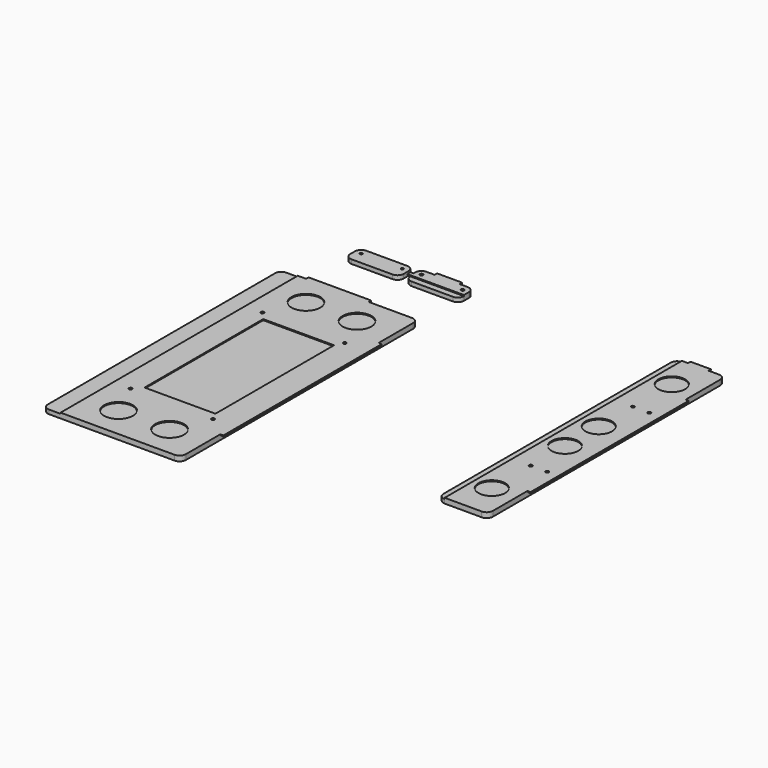
from build123d import *

# Parameters (mm, degrees)
F0_R     = 4.8895
F0_R_2   = 3.9751
F1_DEPTH = 12.7
F2_R     = 4.8895
F2_R_2   = 44.45
F2_W     = 218.482186
F2_H     = 457.2
F3_DEPTH = 3.175
F4_R     = 41.275
F4_R_2   = 4.8895
F5_DEPTH = 3.175
F6_R     = 4.8895
F7_DEPTH = 3.175


with BuildPart() as f1:
    # F0 (on Top) → F1 (new body)
    with BuildSketch(Plane.XY):
        with BuildLine():
            ThreePointArc((-400.520772, -680.39232), (-394.941157, -693.862704), (-381.470772, -699.44232))
            Line((-381.470772, -699.44232), (5.879228, -699.44232))
            ThreePointArc((5.879228, -699.44232), (19.349612, -693.862704), (24.929228, -680.39232))
            Line((24.929228, -680.39232), (24.929228, 195.90768))
            ThreePointArc((24.929228, 195.90768), (19.349612, 209.378064), (5.879228, 214.95768))
            Line((5.879228, 214.95768), (-381.470772, 214.95768))
            ThreePointArc((-381.470772, 214.95768), (-394.941157, 209.378064), (-400.520772, 195.90768))
            Line((-400.520772, 195.90768), (-400.520772, -680.39232))
        make_face()
        with Locations((-292.570772, -496.24232)):
            Circle(F0_R, mode=Mode.SUBTRACT)
        with Locations((-38.570772, -496.24232)):
            Circle(F0_R, mode=Mode.SUBTRACT)
        with Locations((-292.570772, 11.75768)):
            Circle(F0_R, mode=Mode.SUBTRACT)
        with Locations((-38.570772, 11.75768)):
            Circle(F0_R, mode=Mode.SUBTRACT)
        with BuildLine():
            ThreePointArc((634.529173, -449.25231), (640.108789, -462.722694), (653.579173, -468.30231))
            Line((653.579173, -468.30231), (767.879173, -468.30231))
            ThreePointArc((767.879173, -468.30231), (781.349558, -462.722694), (786.929173, -449.25231))
            Line((786.929173, -449.25231), (786.929173, 427.04769))
            ThreePointArc((786.929173, 427.04769), (781.349558, 440.518075), (767.879173, 446.09769))
            Line((767.879173, 446.09769), (653.579173, 446.09769))
            ThreePointArc((653.579173, 446.09769), (640.108789, 440.518075), (634.529173, 427.04769))
            Line((634.529173, 427.04769), (634.529173, -449.25231))
        make_face()
        with Locations((710.729173, -207.95231)):
            Circle(F0_R_2, mode=Mode.SUBTRACT)
        with Locations((761.529173, -207.95231)):
            Circle(F0_R_2, mode=Mode.SUBTRACT)
        with Locations((710.729173, 185.74769)):
            Circle(F0_R_2, mode=Mode.SUBTRACT)
        with Locations((761.529173, 185.74769)):
            Circle(F0_R_2, mode=Mode.SUBTRACT)
        with BuildLine():
            ThreePointArc((-321.780769, 386.407701), (-316.201153, 372.937317), (-302.730769, 367.357701))
            Line((-302.730769, 367.357701), (-175.730769, 367.357701))
            ThreePointArc((-175.730769, 367.357701), (-162.260385, 372.937317), (-156.680769, 386.407701))
            Line((-156.680769, 386.407701), (-156.680769, 405.457701))
            ThreePointArc((-156.680769, 405.457701), (-162.260385, 418.928085), (-175.730769, 424.507701))
            Line((-175.730769, 424.507701), (-302.730769, 424.507701))
            ThreePointArc((-302.730769, 424.507701), (-316.201153, 418.928085), (-321.780769, 405.457701))
            Line((-321.780769, 405.457701), (-321.780769, 386.407701))
        make_face()
        with Locations((-302.730769, 405.457701)):
            Circle(F0_R_2, mode=Mode.SUBTRACT)
        with Locations((-175.730769, 405.457701)):
            Circle(F0_R_2, mode=Mode.SUBTRACT)
        with BuildLine():
            Line((10.197231, 424.507701), (-116.802769, 424.507701))
            ThreePointArc((-116.802769, 424.507701), (-130.273153, 418.928085), (-135.852769, 405.457701))
            Line((-135.852769, 405.457701), (-135.852769, 386.407701))
            ThreePointArc((-135.852769, 386.407701), (-130.273153, 372.937317), (-116.802769, 367.357701))
            Line((-116.802769, 367.357701), (10.197231, 367.357701))
            ThreePointArc((10.197231, 367.357701), (23.667615, 372.937317), (29.247231, 386.407701))
            Line((29.247231, 386.407701), (29.247231, 405.457701))
            ThreePointArc((29.247231, 405.457701), (23.667615, 418.928085), (10.197231, 424.507701))
        make_face()
        with Locations((-116.802769, 405.457701)):
            Circle(F0_R_2, mode=Mode.SUBTRACT)
        with Locations((10.197231, 405.457701)):
            Circle(F0_R_2, mode=Mode.SUBTRACT)
    extrude(amount=F1_DEPTH)

    # F2 (on face) → F3 (join)
    with BuildSketch(Plane.XY.offset(12.7)):
        with BuildLine():
            Line((-345.952958, 214.95768), (-345.952958, -699.44232))
            Line((-345.952958, -699.44232), (5.879228, -699.44232))
            ThreePointArc((5.879228, -699.44232), (19.349612, -693.862704), (24.929228, -680.39232))
            Line((24.929228, -680.39232), (24.929228, -547.04232))
            Line((24.929228, -547.04232), (34.454228, -547.04232))
            Line((34.454228, -547.04232), (34.454228, 62.55768))
            Line((34.454228, 62.55768), (24.929228, 62.55768))
            Line((24.929228, 62.55768), (24.929228, 195.90768))
            ThreePointArc((24.929228, 195.90768), (19.349612, 209.378064), (5.879228, 214.95768))
            Line((5.879228, 214.95768), (-127.470772, 214.95768))
            Line((-127.470772, 214.95768), (-127.470772, 224.48268))
            Line((-127.470772, 224.48268), (-320.552958, 224.48268))
            Line((-320.552958, 224.48268), (-320.552958, 214.95768))
            Line((-320.552958, 214.95768), (-345.952958, 214.95768))
        make_face()
        with Locations((-292.570772, -496.24232)):
            Circle(F2_R, mode=Mode.SUBTRACT)
        with Locations((-244.016021, -603.443396)):
            Circle(F2_R_2, mode=Mode.SUBTRACT)
        with Locations((-160.511865, -242.24232)):
            Rectangle(F2_W, F2_H, mode=Mode.SUBTRACT)
        with Locations((-86.468175, -603.443396)):
            Circle(F2_R_2, mode=Mode.SUBTRACT)
        with Locations((-38.570772, -496.24232)):
            Circle(F2_R, mode=Mode.SUBTRACT)
        with Locations((-292.570772, 11.75768)):
            Circle(F2_R, mode=Mode.SUBTRACT)
        with Locations((-244.016021, 118.958756)):
            Circle(F2_R_2, mode=Mode.SUBTRACT)
        with Locations((-86.468175, 118.958756)):
            Circle(F2_R_2, mode=Mode.SUBTRACT)
        with Locations((-38.570772, 11.75768)):
            Circle(F2_R, mode=Mode.SUBTRACT)
    extrude(amount=F3_DEPTH)

    # F4 (on face) → F5 (join)
    with BuildSketch(Plane.XY.offset(12.7)):
        with BuildLine():
            Line((653.579173, 446.09769), (653.579173, -468.30231))
            Line((653.579173, -468.30231), (767.879173, -468.30231))
            ThreePointArc((767.879173, -468.30231), (781.349558, -462.722694), (786.929173, -449.25231))
            Line((786.929173, -449.25231), (786.929173, -315.90231))
            Line((786.929173, -315.90231), (796.454173, -315.90231))
            Line((796.454173, -315.90231), (796.454173, 293.69769))
            Line((796.454173, 293.69769), (786.929173, 293.69769))
            Line((786.929173, 293.69769), (786.929173, 427.04769))
            ThreePointArc((786.929173, 427.04769), (781.349558, 440.518075), (767.879173, 446.09769))
            Line((767.879173, 446.09769), (736.129173, 446.09769))
            Line((736.129173, 446.09769), (736.129173, 455.62269))
            Line((736.129173, 455.62269), (672.629173, 455.62269))
            Line((672.629173, 455.62269), (672.629173, 446.09769))
            Line((672.629173, 446.09769), (653.579173, 446.09769))
        make_face()
        with Locations((710.729173, -357.894033)):
            Circle(F4_R, mode=Mode.SUBTRACT)
        with Locations((710.729173, -207.95231)):
            Circle(F4_R_2, mode=Mode.SUBTRACT)
        with Locations((710.729173, -76.371066)):
            Circle(F4_R, mode=Mode.SUBTRACT)
        with Locations((761.529173, -207.95231)):
            Circle(F4_R_2, mode=Mode.SUBTRACT)
        with Locations((710.729173, 54.166447)):
            Circle(F4_R, mode=Mode.SUBTRACT)
        with Locations((710.729173, 185.74769)):
            Circle(F4_R_2, mode=Mode.SUBTRACT)
        with Locations((710.729173, 335.689414)):
            Circle(F4_R, mode=Mode.SUBTRACT)
        with Locations((761.529173, 185.74769)):
            Circle(F4_R_2, mode=Mode.SUBTRACT)
    extrude(amount=F5_DEPTH)

    # F6 (on face) → F7 (join)
    with BuildSketch(Plane.XY.offset(12.7)):
        with BuildLine():
            Line((-145.377769, 386.407701), (-135.852769, 386.407701))
            Line((-135.852769, 386.407701), (29.247231, 386.407701))
            Line((29.247231, 386.407701), (29.247231, 405.457701))
            ThreePointArc((29.247231, 405.457701), (23.667615, 418.928085), (10.197231, 424.507701))
            Line((10.197231, 424.507701), (-15.202769, 424.507701))
            Line((-15.202769, 424.507701), (-15.202769, 434.032701))
            Line((-15.202769, 434.032701), (-91.402769, 434.032701))
            Line((-91.402769, 434.032701), (-91.402769, 424.507701))
            Line((-91.402769, 424.507701), (-116.802769, 424.507701))
            ThreePointArc((-116.802769, 424.507701), (-130.273153, 418.928085), (-135.852769, 405.457701))
            Line((-135.852769, 405.457701), (-135.852769, 399.107701))
            Line((-135.852769, 399.107701), (-145.377769, 399.107701))
            Line((-145.377769, 399.107701), (-145.377769, 386.407701))
        make_face()
        with Locations((-116.802769, 405.457701)):
            Circle(F6_R, mode=Mode.SUBTRACT)
        with Locations((10.197231, 405.457701)):
            Circle(F6_R, mode=Mode.SUBTRACT)
    extrude(amount=F7_DEPTH)


solid = f1.part
